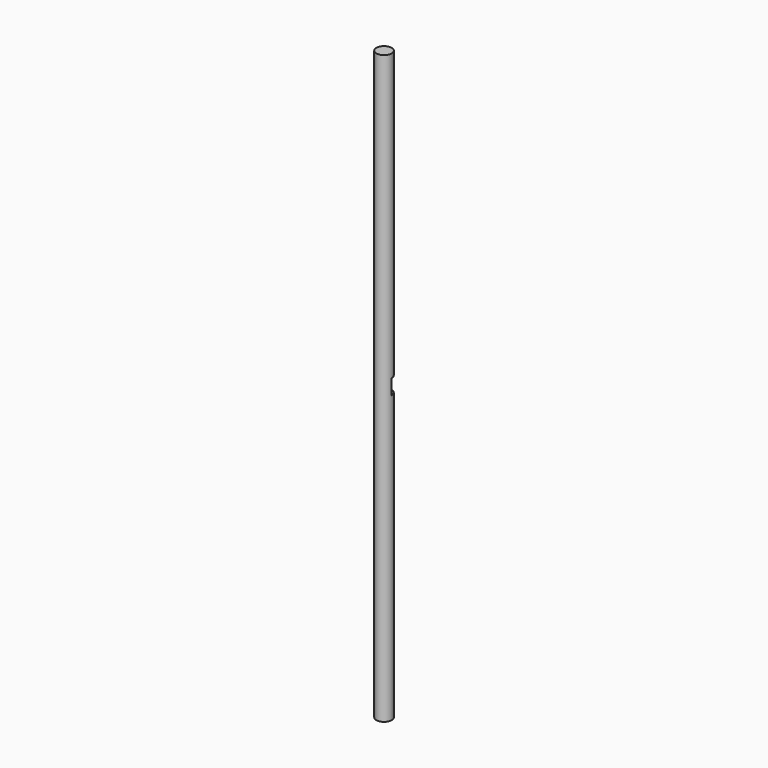
from build123d import *

# Parameters (mm, degrees)
F0_R     = 7.9375
F1_DEPTH = 304.8
F2_W     = 7.9375
F2_H     = 15.875
F3_DEPTH = 12.7


with BuildPart() as f1:
    # F0 (on Top) → F1 (new body, symmetric)
    with BuildSketch(Plane.XY):
        Circle(F0_R)
    extrude(amount=F1_DEPTH, both=True)

    # F2 (on Right) → F3 (cut, symmetric)
    with BuildSketch(Plane.YZ):
        with Locations((3.96875, 0)):
            Rectangle(F2_W, F2_H)
    extrude(amount=F3_DEPTH, both=True, mode=Mode.SUBTRACT)


solid = f1.part
